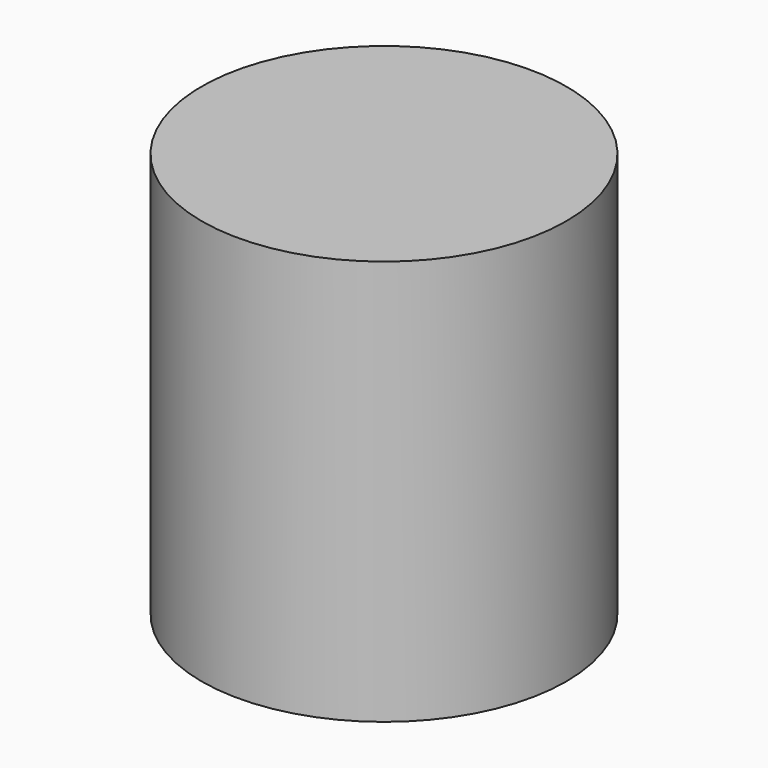
from build123d import *

# Parameters (mm, degrees)
SKETCH_1_R  = 45
PAD_1_DEPTH = 100


with BuildPart() as part:
    # Sketch_1 → Pad_1 (new body)
    with BuildSketch(Plane.XY):
        Circle(SKETCH_1_R)
    extrude(amount=PAD_1_DEPTH)


solid = part.part
